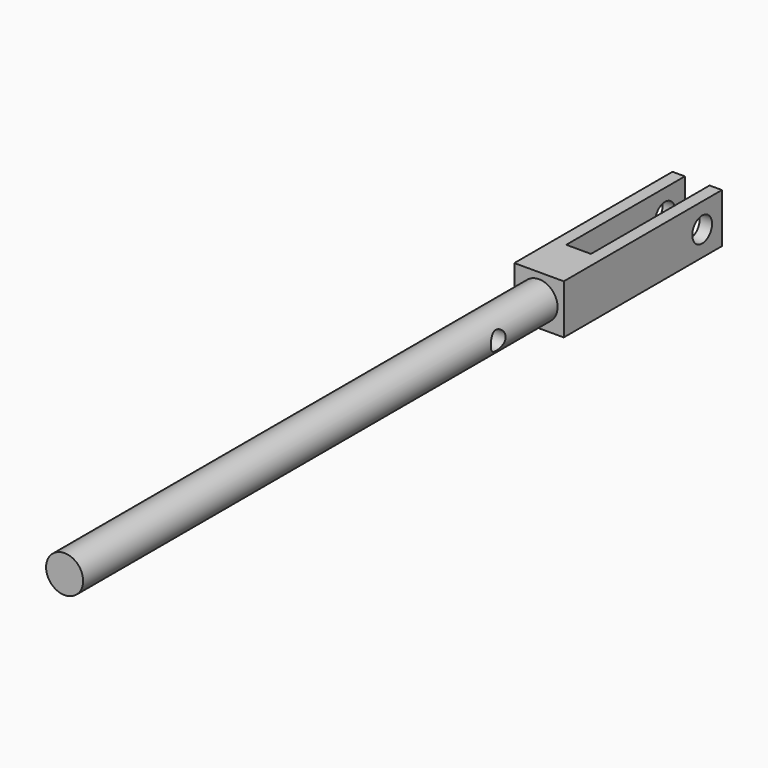
from build123d import *

# Parameters (mm, degrees)
F0_W     = 25.4
F0_H     = 101.6
F1_DEPTH = 25.4
F2_W     = 12.7
F2_H     = 101.6
F3_DEPTH = 25.401
F4_R     = 6.35
F5_DEPTH = 25.401
F6_R     = 9.525
F7_DEPTH = 304.8
F8_R     = 4.7625
F9_DEPTH = 25.401


with BuildPart() as f1:
    # F0 (on Top) → F1 (new body)
    with BuildSketch(Plane.XY):
        Rectangle(F0_W, F0_H)
    extrude(amount=F1_DEPTH)

    # F2 (on face) → F3 (cut, through all)
    with BuildSketch(Plane.XY.offset(25.4)):
        with Locations((0, 25.4)):
            Rectangle(F2_W, F2_H)
    extrude(amount=-F3_DEPTH, mode=Mode.SUBTRACT)

    # F4 (on face) → F5 (cut, through all)
    with BuildSketch(Plane.YZ.offset(12.7)):
        with Locations((38.1, 12.7)):
            Circle(F4_R)
    extrude(amount=-F5_DEPTH, mode=Mode.SUBTRACT)

    # F6 (on face) → F7 (join)
    with BuildSketch(Plane.XZ.offset(50.8)):
        with Locations((0, 12.7)):
            Circle(F6_R)
    extrude(amount=F7_DEPTH)

    # F8 (on face) → F9 (cut, through all)
    with BuildSketch(Plane.YZ.offset(12.7)):
        with Locations((-88.9, 12.7)):
            Circle(F8_R)
    extrude(amount=-F9_DEPTH, mode=Mode.SUBTRACT)


solid = f1.part
